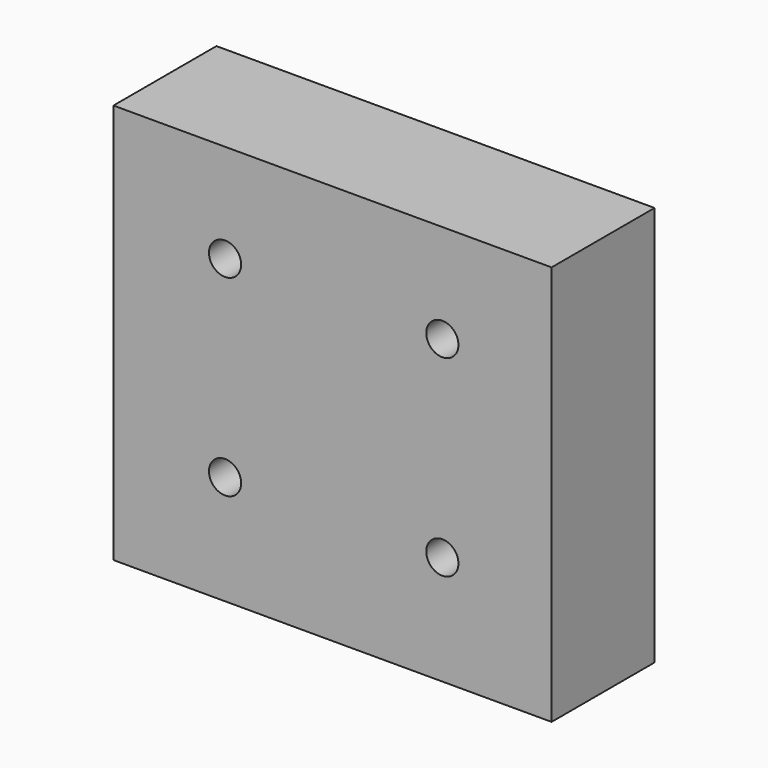
from build123d import *

# Parameters (mm, degrees)
F0_W     = 86.452972
F0_H     = 78.955695
F1_DEPTH = 25.4
F3_D     = 6.35


with BuildPart() as f1:
    # F0 (on Front) → F1 (new body)
    with BuildSketch(Plane.XZ):
        with Locations((-1.288595, 6.794408)):
            Rectangle(F0_W, F0_H)
    extrude(amount=F1_DEPTH)

    # F3 (through all)
    with Locations(Plane.XZ.offset(25.4)):
        with Locations((-22.491831, 26.826194), (20.383222, 26.826194), (20.383222, -11.12877), (-22.491831, -11.12877)):
            Hole(F3_D / 2)


solid = f1.part
